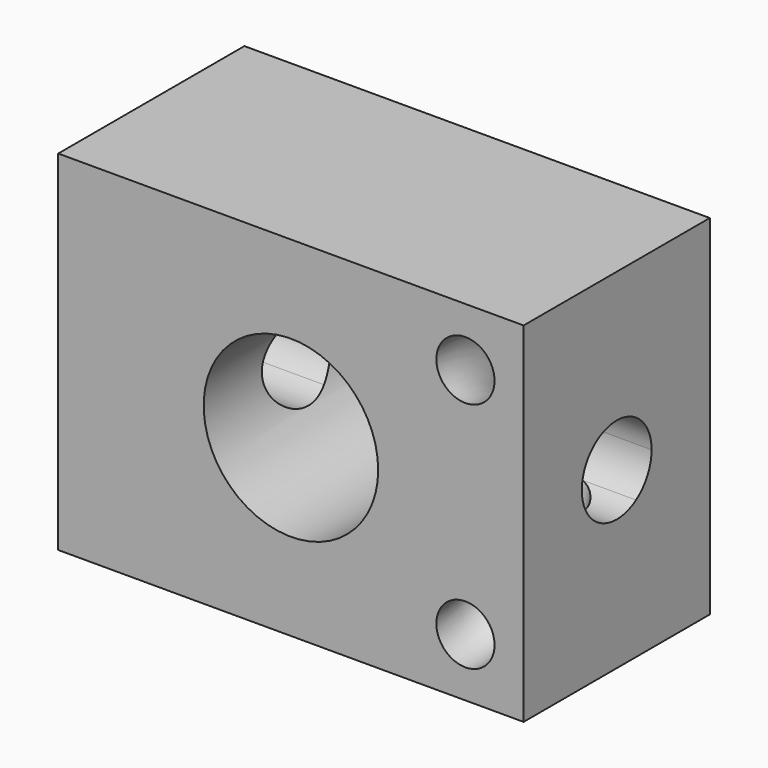
from build123d import *

# Parameters (mm, degrees)
F0_W     = 101.6
F0_H     = 76.2
F1_DEPTH = 50.8
F2_R     = 19.05
F3_DEPTH = 50.801
F5_DEPTH = 101.601
F6_R     = 6.35


with BuildPart() as f1:
    # F0 (on Front) → F1 (new body)
    with BuildSketch(Plane.XZ):
        with Locations((50.8, 38.1)):
            Rectangle(F0_W, F0_H)
    extrude(amount=F1_DEPTH)

    # F2 (on face) → F3 (cut, through all)
    with BuildSketch(Plane.XZ.offset(50.8)):
        with Locations((50.8, 38.1)):
            Circle(F2_R)
    extrude(amount=-F3_DEPTH, mode=Mode.SUBTRACT)

    # F4 (on face) → F5 (cut, through all)
    with BuildSketch(Plane.YZ.offset(101.6)):
        with BuildLine():
            ThreePointArc((-15.875, 38.1), (-20.9055532593, 46.4979505533), (-30.683519369, 46.0252790536))
            Line((-30.683519369, 46.0252790536), (-20.116480631, 30.1747209464))
            ThreePointArc((-20.116480631, 30.1747209464), (-17.0020494467, 33.6055532593), (-15.875, 38.1))
        make_face()
        with BuildLine():
            Line((-20.116480631, 30.1747209464), (-30.683519369, 46.0252790536))
            ThreePointArc((-30.683519369, 46.0252790536), (-33.3252790536, 32.816480631), (-20.116480631, 30.1747209464))
        make_face()
    extrude(amount=-F5_DEPTH, mode=Mode.SUBTRACT)

    # F6 (on face) → F7 (revolve, cut)
    with BuildSketch(Plane.XZ.offset(50.8)):
        with Locations((88.9, 63.5)):
            Circle(F6_R)
    revolve(axis=Axis((91.8411842167, -50.8, 38.1), (-1, 0, 0)), mode=Mode.SUBTRACT)


solid = f1.part
